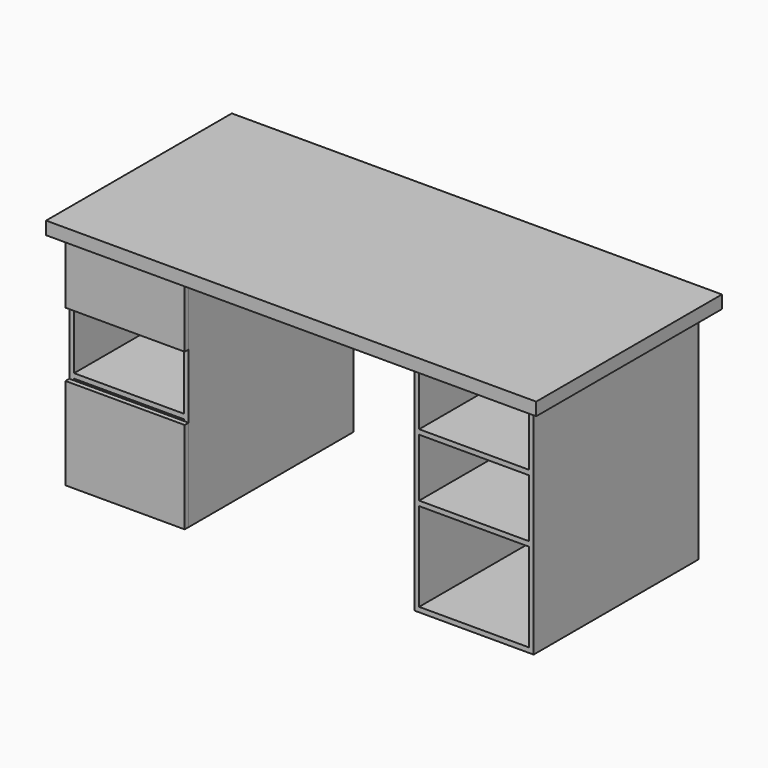
from build123d import *

# Parameters (mm, degrees)
F0_W     = 431.8
F0_H     = 19.05
F1_DEPTH = 406.4
F2_DEPTH = 457.2
F3_DEPTH = 406.4
F4_DEPTH = 406.4
F6_W     = 469.9
F6_H     = 241.3
F7_DEPTH = 19.05
F6_H_2   = 361.95


with BuildPart() as f1:
    # F0 (on Front) → F1 (new body, symmetric)
    with BuildSketch(Plane.XZ):
        Polygon((-895.35, 0), (-914.4, 0), (-914.4, -844.55), (-895.35, -844.55), (-895.35, -495.3), (-895.35, -476.25), (-895.35, -247.65), (-895.35, -228.6), align=None)
        with Locations((-679.45, -238.125)):
            Rectangle(F0_W, F0_H)
        with Locations((-679.45, -485.775)):
            Rectangle(F0_W, F0_H)
        Polygon((-895.35, -844.55), (-914.4, -844.55), (-914.4, -863.6), (-444.5, -863.6), (-444.5, -844.55), (-463.55, -844.55), align=None)
        Polygon((-444.5, 0), (-463.55, 0), (-463.55, -228.6), (-463.55, -247.65), (-463.55, -476.25), (-463.55, -495.3), (-463.55, -844.55), (-444.5, -844.55), align=None)
    extrude(amount=F1_DEPTH, both=True)


with BuildPart() as f1b:
    # F0 (on Front) → F1, piece 2 (new body, symmetric)
    with BuildSketch(Plane.XZ):
        Polygon((914.4, -844.55), (914.4, 0), (895.35, 0), (895.35, -228.6), (895.35, -247.65), (895.35, -476.25), (895.35, -495.3), (895.35, -844.55), align=None)
        with Locations((679.45, -238.125)):
            Rectangle(F0_W, F0_H)
        with Locations((679.45, -485.775)):
            Rectangle(F0_W, F0_H)
        Polygon((463.55, 0), (444.5, 0), (444.5, -844.55), (463.55, -844.55), (463.55, -495.3), (463.55, -476.25), (463.55, -247.65), (463.55, -228.6), align=None)
        Polygon((463.55, -844.55), (444.5, -844.55), (444.5, -863.6), (914.4, -863.6), (914.4, -844.55), (895.35, -844.55), align=None)
    extrude(amount=F1_DEPTH, both=True)


with BuildPart() as f2:
    # F0 (on Front) → F2 (new body, symmetric)
    with BuildSketch(Plane.XZ):
        Polygon((-965.2, 0), (-914.4, 0), (-895.35, 0), (-463.55, 0), (-444.5, 0), (444.5, 0), (463.55, 0), (895.35, 0), (914.4, 0), (965.2, 0), (965.2, 50.8), (-965.2, 50.8), align=None)
    extrude(amount=F2_DEPTH, both=True)


with BuildPart() as f3:
    # F0 (on Front) → F3 (new body, symmetric)
    with BuildSketch(Plane.XZ):
        Polygon((-495.3, -508), (-495.3, -809.625), (-495.3, -828.675), (-495.3, -841.375), (-476.25, -841.375), (-476.25, -508), align=None)
        Polygon((-679.45, -809.625), (-863.6, -809.625), (-863.6, -828.675), (-679.45, -828.675), (-495.3, -828.675), (-495.3, -809.625), align=None)
        Polygon((-863.6, -508), (-882.65, -508), (-882.65, -841.375), (-863.6, -841.375), (-863.6, -828.675), (-863.6, -809.625), align=None)
    extrude(amount=F3_DEPTH, both=True)


with BuildPart() as f4:
    # F0 (on Front) → F4 (new body, symmetric)
    with BuildSketch(Plane.XZ):
        Polygon((-495.3, -12.7), (-495.3, -193.675), (-495.3, -212.725), (-495.3, -225.425), (-476.25, -225.425), (-476.25, -12.7), align=None)
        Polygon((-679.45, -193.675), (-863.6, -193.675), (-863.6, -212.725), (-679.45, -212.725), (-495.3, -212.725), (-495.3, -193.675), align=None)
        Polygon((-863.6, -12.7), (-882.65, -12.7), (-882.65, -225.425), (-863.6, -225.425), (-863.6, -212.725), (-863.6, -193.675), align=None)
    extrude(amount=F4_DEPTH, both=True)


with BuildPart() as f7:
    # F6 (on 3pt) → F7 (new body)
    with BuildSketch(Plane.XZ.offset(406.4)):
        with Locations((-679.45, -127)):
            Rectangle(F6_W, F6_H)
    extrude(amount=F7_DEPTH)


with BuildPart() as f7b:
    # F6 (on 3pt) → F7, piece 2 (new body)
    with BuildSketch(Plane.XZ.offset(406.4)):
        with Locations((-679.45, -682.625)):
            Rectangle(F6_W, F6_H_2)
    extrude(amount=F7_DEPTH)


solid = Compound([f1.part, f1b.part, f2.part, f3.part, f4.part, f7.part, f7b.part])
